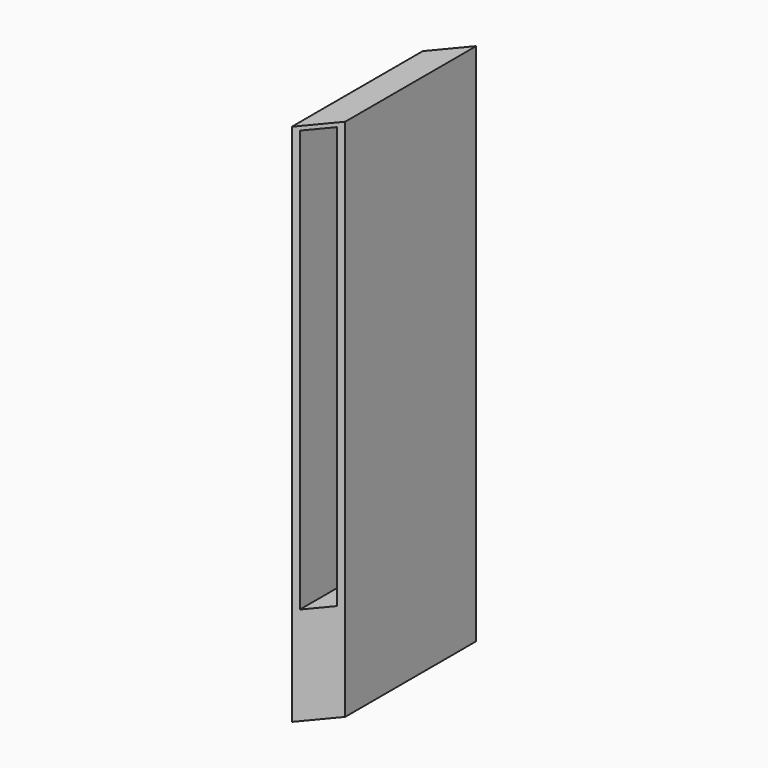
from build123d import *

# Parameters (mm, degrees)
F0_W     = 914.4
F0_H     = 2438.4
F1_DEPTH = 127
F2_W     = 88.9
F2_H     = 1962.15
F3_DEPTH = 914.4
F5_DEPTH = 2438.401


with BuildPart() as f1:
    # F0 (on Right) → F1 (new body)
    with BuildSketch(Plane.YZ):
        Rectangle(F0_W, F0_H)
    extrude(amount=F1_DEPTH)

    # F2 (on face) → F3 (cut, through all)
    with BuildSketch(Plane.XZ.offset(457.2)):
        with Locations((63.5, 219.075)):
            Rectangle(F2_W, F2_H)
    extrude(amount=-F3_DEPTH, mode=Mode.SUBTRACT)

    # F4 (on face) → F5 (cut, through all)
    with BuildSketch(Plane.XY.offset(1219.2)):
        Polygon((0, 304.8), (127, 457.2), (0, 457.2), align=None)
        Polygon((127, -457.2), (127, -304.8), (0, -457.2), align=None)
    extrude(amount=-F5_DEPTH, mode=Mode.SUBTRACT)


solid = f1.part
